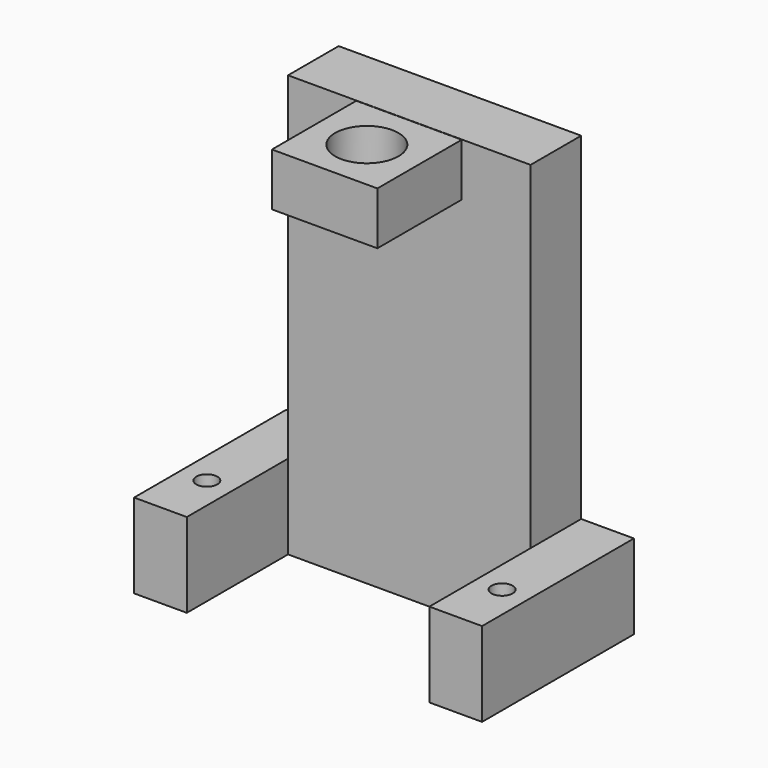
from build123d import *

# Parameters (mm, degrees)
F0_R     = 1
F1_DEPTH = 8
F0_W     = 23
F0_H     = 6
F2_DEPTH = 40
F5_START = 35
F4_W     = 10
F4_H     = 10
F4_R     = 3
F5_DEPTH = 5


with BuildPart() as f1:
    # F0 (on Top) → F1 (new body)
    with BuildSketch(Plane.XY):
        Polygon((-11.5, 1.7857142857), (-11.5, 7.7857142857), (-16.5, 7.7857142857), (-16.5, -10.2142857143), (-11.5, -10.2142857143), align=None)
        with Locations((-14, -4.7142857143)):
            Circle(F0_R, mode=Mode.SUBTRACT)
    extrude(amount=F1_DEPTH)



with BuildPart() as f1b:
    # F0 (on Top) → F1, piece 2 (new body)
    with BuildSketch(Plane.XY):
        Polygon((16.5, 7.7857142857), (11.5, 7.7857142857), (11.5, 1.7857142857), (11.5, -10.2142857143), (16.5, -10.2142857143), align=None)
        with Locations((14, -4.7142857143)):
            Circle(F0_R, mode=Mode.SUBTRACT)
    extrude(amount=F1_DEPTH)


with BuildPart() as f1_1:
    add(f1.part)

    add(f1b.part)  # F2 merges F1b
    # F0 (on Top) → F2 (join)
    with BuildSketch(Plane.XY):
        with Locations((0, 4.7857142857)):
            Rectangle(F0_W, F0_H)
    extrude(amount=F2_DEPTH)


with BuildPart() as f1_2:
    # F3: moved
    add(f1_1.part.moved(Location((0, -1.75, 0))))


with BuildPart() as f5:
    # F4 (on Top) → F5 (new body)
    with BuildSketch(Plane.XY.offset(F5_START)):
        with Locations((0, -5)):
            Rectangle(F4_W, F4_H)
        with Locations((0, -5)):
            Circle(F4_R, mode=Mode.SUBTRACT)
    extrude(amount=F5_DEPTH)


solid = Compound([f1_2.part, f5.part])
